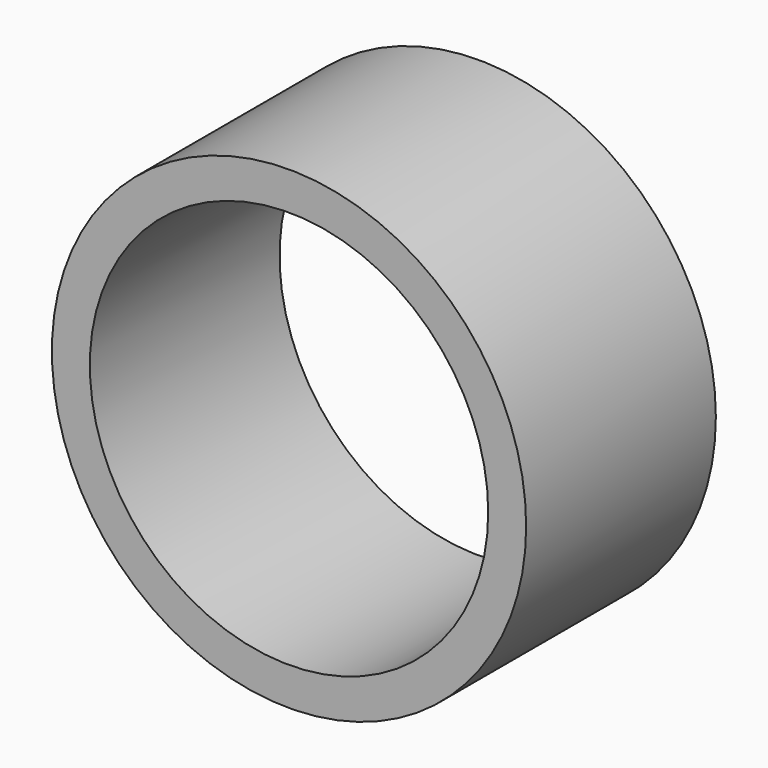
from build123d import *

# Parameters (mm, degrees)
CYLINDER015_R          = 21
CYLINDER015_DEPTH      = 25
CYLINDER016_R          = 25
CYLINDER016_DEPTH      = 25
CUT002_ROLL_ANGLE      = 90
CUT002_PITCH_ANGLE     = -7e-06
CUT002_PLACEMENT_ANGLE = 7e-06


with BuildPart() as cylinder015:
    # Cylinder015 → Cylinder015 (new body)
    with BuildSketch(Plane.XY):
        Circle(CYLINDER015_R)
    extrude(amount=CYLINDER015_DEPTH)


with BuildPart() as cut002:
    # Cylinder016 → Cylinder016 (new body)
    with BuildSketch(Plane.XY):
        Circle(CYLINDER016_R)
    extrude(amount=CYLINDER016_DEPTH)

    # Cut002: cut Cylinder015
    add(cylinder015.part, mode=Mode.SUBTRACT)


with BuildPart() as cut002_1:
    # Cut002 roll: moved
    add(cut002.part.rotate(Axis((0, 0, 0), (1, 0, 0)), CUT002_ROLL_ANGLE))


with BuildPart() as cut002_2:
    # Cut002 pitch: moved
    add(cut002_1.part.rotate(Axis((0, 0, 0), (0, 1, 0)), CUT002_PITCH_ANGLE))


with BuildPart() as cut002_3:
    # Cut002 placement: moved
    add(cut002_2.part.moved(Location((22, 77, -12))).rotate(Axis((22, 77, -12), (0, 0, 1)), CUT002_PLACEMENT_ANGLE))


solid = cut002_3.part
